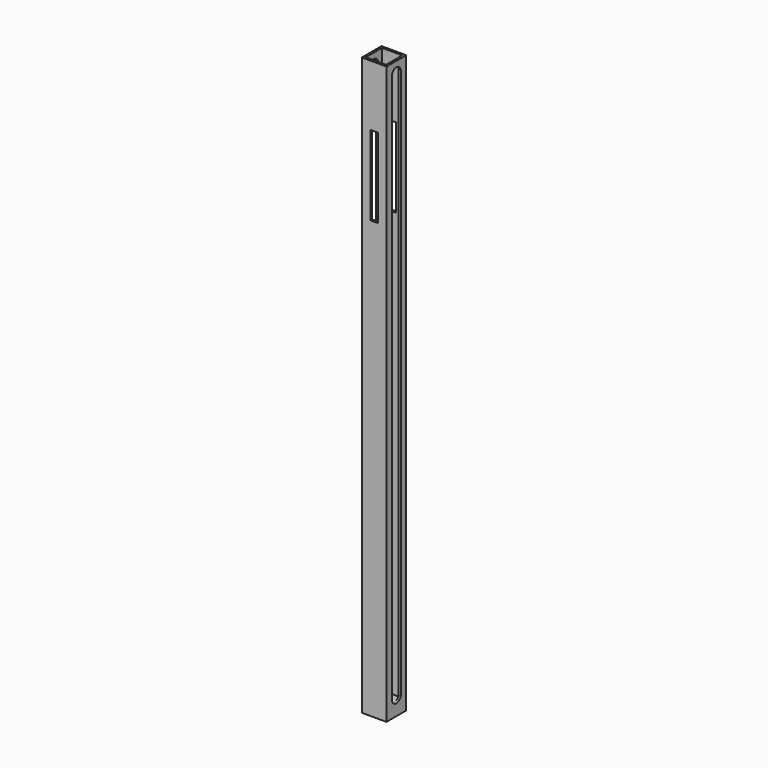
from build123d import *

# Parameters (mm, degrees)
F0_W     = 27.686
F0_H     = 27.686
F1_DEPTH = 647.7
F2_W     = 22.86
F2_H     = 22.86
F3_DEPTH = 635
F5_DEPTH = 56.134
F6_W     = 8.5673183203
F6_H     = 89.4483327866
F7_DEPTH = 68.326


with BuildPart() as f1:
    # F0 (on Top) → F1 (new body)
    with BuildSketch(Plane.XY):
        Rectangle(F0_W, F0_H)
    extrude(amount=F1_DEPTH)

    # F2 (on face) → F3 (cut)
    with BuildSketch(Plane.XY.offset(647.7)):
        Rectangle(F2_W, F2_H)
    extrude(amount=-F3_DEPTH, mode=Mode.SUBTRACT)

    # F4 (on face) → F5 (cut)
    with BuildSketch(Plane.YZ.offset(13.843)):
        with BuildLine():
            ThreePointArc((0, 628.65), (-4.4901280605, 630.5098719395), (-6.35, 635))
            Line((-6.35, 635), (-6.35, 323.85))
            Line((-6.35, 323.85), (0, 323.85))
            Line((0, 323.85), (0, 628.65))
        make_face()
        with BuildLine():
            Line((0, 628.65), (0, 635))
            Line((0, 635), (-6.35, 635))
            ThreePointArc((-6.35, 635), (-4.4901280605, 630.5098719395), (0, 628.65))
        make_face()
        with BuildLine():
            Line((0, 635), (0, 641.35))
            ThreePointArc((0, 641.35), (-4.4901280605, 639.4901280605), (-6.35, 635))
            Line((-6.35, 635), (0, 635))
        make_face()
        with BuildLine():
            ThreePointArc((6.35, 635), (4.4901280605, 639.4901280605), (0, 641.35))
            Line((0, 641.35), (0, 635))
            Line((0, 635), (6.35, 635))
        make_face()
        with BuildLine():
            Line((6.35, 635), (0, 635))
            Line((0, 635), (0, 628.65))
            ThreePointArc((0, 628.65), (4.4901280605, 630.5098719395), (6.35, 635))
        make_face()
        with BuildLine():
            Line((6.35, 323.85), (6.35, 635))
            ThreePointArc((6.35, 635), (4.4901280605, 630.5098719395), (0, 628.65))
            Line((0, 628.65), (0, 323.85))
            Line((0, 323.85), (6.35, 323.85))
        make_face()
        with BuildLine():
            Line((0, 323.85), (-6.35, 323.85))
            Line((-6.35, 323.85), (-6.35, 19.05))
            ThreePointArc((-6.35, 19.05), (-4.4901280605, 23.5401280605), (0, 25.4))
            Line((0, 25.4), (0, 323.85))
        make_face()
        with BuildLine():
            Line((6.35, 19.05), (6.35, 323.85))
            Line((6.35, 323.85), (0, 323.85))
            Line((0, 323.85), (0, 25.4))
            ThreePointArc((0, 25.4), (4.4901280605, 23.5401280605), (6.35, 19.05))
        make_face()
        with BuildLine():
            ThreePointArc((0, 12.7), (4.4901280605, 14.5598719395), (6.35, 19.05))
            Line((6.35, 19.05), (0, 19.05))
            Line((0, 19.05), (0, 12.7))
        make_face()
        with BuildLine():
            Line((0, 19.05), (-6.35, 19.05))
            ThreePointArc((-6.35, 19.05), (-4.4901280605, 14.5598719395), (0, 12.7))
            Line((0, 12.7), (0, 19.05))
        make_face()
        with BuildLine():
            ThreePointArc((0, 25.4), (-4.4901280605, 23.5401280605), (-6.35, 19.05))
            Line((-6.35, 19.05), (0, 19.05))
            Line((0, 19.05), (0, 25.4))
        make_face()
        with BuildLine():
            Line((0, 19.05), (6.35, 19.05))
            ThreePointArc((6.35, 19.05), (4.4901280605, 23.5401280605), (0, 25.4))
            Line((0, 25.4), (0, 19.05))
        make_face()
    extrude(amount=-F5_DEPTH, mode=Mode.SUBTRACT)

    # F6 (on face) → F7 (cut)
    with BuildSketch(Plane.XZ.offset(13.843)):
        with Locations((0, 534.5633029938)):
            Rectangle(F6_W, F6_H)
    extrude(amount=-F7_DEPTH, mode=Mode.SUBTRACT)


solid = f1.part
